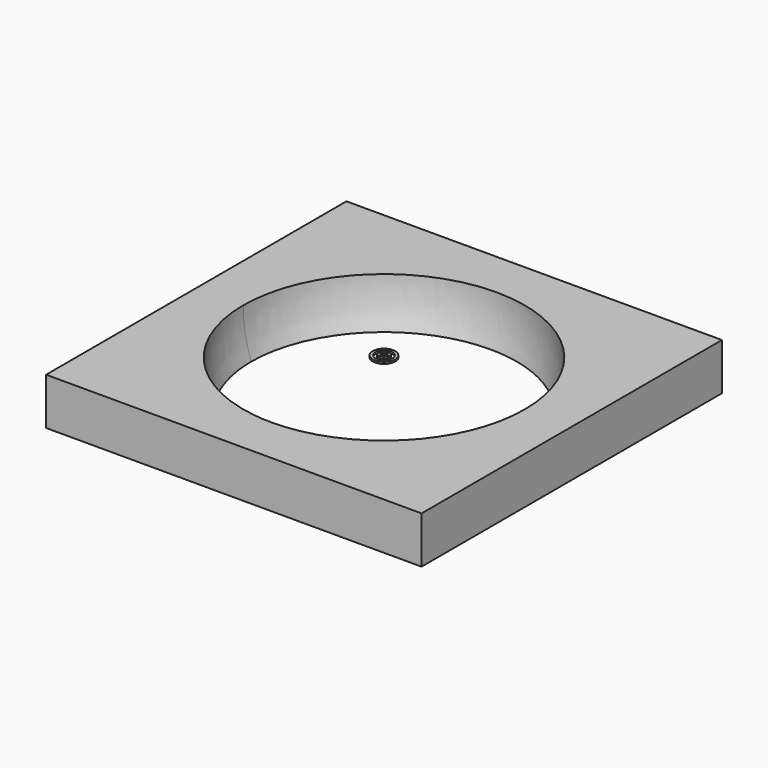
from build123d import *

# Parameters (mm, degrees)
F0_W     = 400
F0_H     = 400
F1_DEPTH = 50
F4_R     = 12
F4_R_2   = 9
F5_DEPTH = 2
F4_R_3   = 6
F6_DEPTH = 2


with BuildPart() as f1:
    # F0 (on Top) → F1 (new body)
    with BuildSketch(Plane.XY):
        Rectangle(F0_W, F0_H)
    extrude(amount=F1_DEPTH)

    # F2 (on face) → F3 (revolve, cut)
    with BuildSketch(Plane.XY.offset(50)):
        with BuildLine():
            ThreePointArc((0, -150), (106.066017, -106.066017), (150, 0))
            ThreePointArc((150, 0), (106.066017, 106.066017), (0, 150))
            Line((0, 150), (0, -150))
        make_face()
    revolve(axis=Axis((0, 0.933055, 50), (0, -1, 0)), mode=Mode.SUBTRACT)


with BuildPart() as f5:
    # F4 (on face) → F5 (new body)
    with BuildSketch(Plane.XY.offset(50)):
        Circle(F4_R)
        Circle(F4_R_2, mode=Mode.SUBTRACT)
    extrude(amount=F5_DEPTH)


with BuildPart() as f6:
    # F4 (on face) → F6 (new body)
    with BuildSketch(Plane.XY.offset(50)):
        Circle(F4_R_3)
        Polygon((-2.08881, -0.678695), (-5.468575, 1.776848), (-1.290955, 1.776848), (0, 5.75), (1.290955, 1.776848), (5.468575, 1.776848), (2.08881, -0.678695), (3.379765, -4.651848), (0, -2.196305), (-3.379765, -4.651848), align=None, mode=Mode.SUBTRACT)
    extrude(amount=F6_DEPTH)


solid = Compound([f1.part, f5.part, f6.part])
